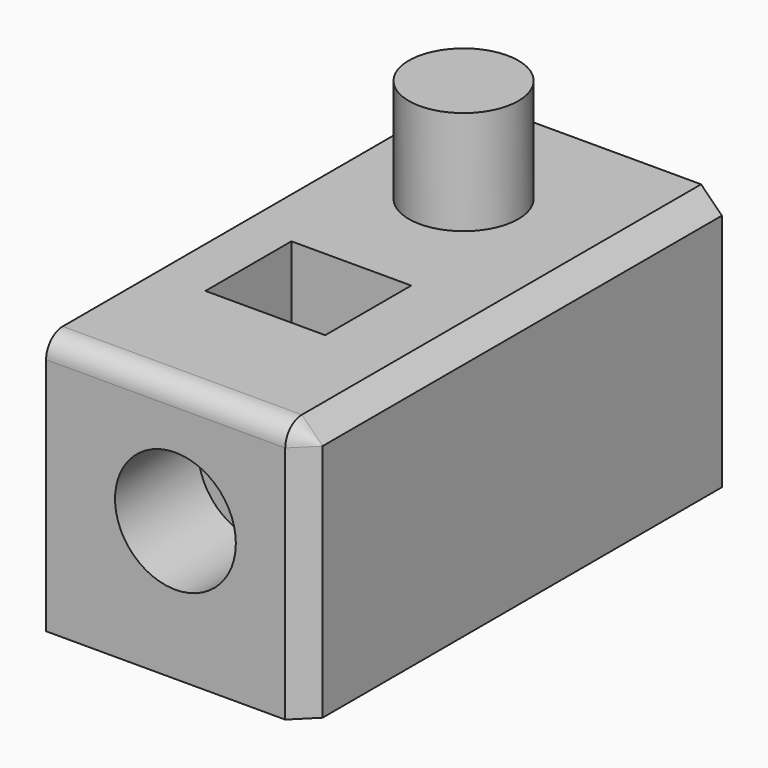
from build123d import *

# Parameters (mm, degrees)
F0_W     = 63.5
F0_H     = 63.5
F1_DEPTH = 127
F2_R     = 5.08
F3_SIZE  = 5.08
F4_W     = 29.269816
F4_H     = 26.25883
F5_DEPTH = 25.4
F4_R     = 13.374611
F6_DEPTH = 25.4
F7_R     = 14.75744
F8_DEPTH = 25.4


with BuildPart() as f1:
    # F0 (on Front) → F1 (new body)
    with BuildSketch(Plane.XZ):
        with Locations((31.75, 31.75)):
            Rectangle(F0_W, F0_H)
    extrude(amount=-F1_DEPTH)

    # F2
    f2_edges = [f1.edges().sort_by_distance(p)[0] for p in [
        (31.75, 0, 63.5),
    ]]
    fillet(f2_edges, radius=F2_R)

    # F3
    f3_edges = [f1.edges().sort_by_distance(p)[0] for p in [
        (63.5, 66.04, 63.5),
        (63.5, 0, 29.21),
    ]]
    chamfer(f3_edges, length=F3_SIZE)

    # F4 (on face) → F5 (cut)
    with BuildSketch(Plane.XY.offset(63.5)):
        with Locations((26.733129, 46.660667)):
            Rectangle(F4_W, F4_H)
    extrude(amount=-F5_DEPTH, mode=Mode.SUBTRACT)

    # F4 (on face) → F6 (join)
    with BuildSketch(Plane.XY.offset(63.5)):
        with Locations((26.789799, 94.000928)):
            Circle(F4_R)
    extrude(amount=F6_DEPTH)

    # F7 (on face) → F8 (cut)
    with BuildSketch(Plane.XZ):
        with Locations((31.600073, 33.965837)):
            Circle(F7_R)
    extrude(amount=-F8_DEPTH, mode=Mode.SUBTRACT)


solid = f1.part
